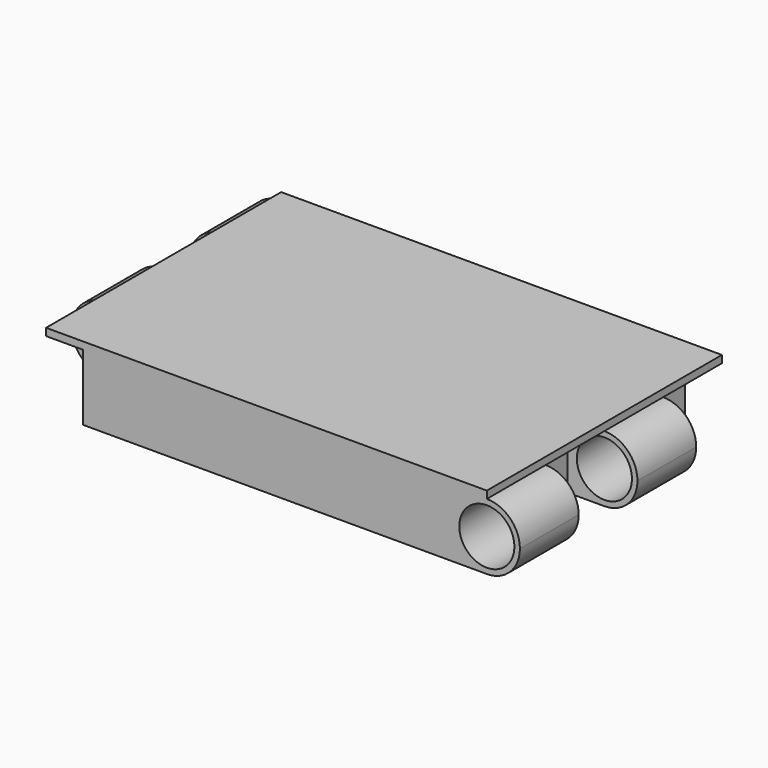
from build123d import *

# Parameters (mm, degrees)
F1_DEPTH      = 25.4
F3_DEPTH      = 25.4
F3_DEPTH_BACK = 50.801
F2_R          = 9.525
F4_DEPTH      = 25.4
F4_DEPTH_BACK = 50.801
F2_W          = 12.7
F2_H          = 2.54
F5_DEPTH      = 25.4
F5_DEPTH_BACK = 50.8
F7_DEPTH      = 25.4
F7_DEPTH_BACK = 50.801
F6_R          = 9.525
F8_DEPTH      = 25.4
F8_DEPTH_BACK = 50.801
F6_W          = 12.7
F6_H          = 2.54
F9_DEPTH      = 25.4
F9_DEPTH_BACK = 50.8


with BuildPart() as f1:
    # F0 (on Top) → F1 (new body)
    with BuildSketch(Plane.XY):
        Polygon((15.1580646015, 101.6), (-137.2419353985, 101.6), (-137.2419353985, 76.2), (-111.8419353985, 76.2), (-111.8419353985, 50.8), (-137.2419353985, 50.8), (-137.2419353985, 25.4), (-111.8419353985, 25.4), (-111.8419353985, 0), (40.5580646015, 0), (40.5580646015, 25.4), (15.1580646015, 25.4), (15.1580646015, 50.8), (40.5580646015, 50.8), (40.5580646015, 76.2), (15.1580646015, 76.2), align=None)
    extrude(amount=F1_DEPTH)

    # F2 (on face) → F3 (cut, two sides)
    with BuildSketch(Plane(origin=(0, 50.8, 0), x_dir=(-1, 0, 0), z_dir=(0, 1, 0))) as f3_sk:
        with BuildLine():
            ThreePointArc((124.5419353985, 22.86), (132.6241659074, 19.512230509), (135.9719353985, 11.43))
            ThreePointArc((135.9719353985, 11.43), (132.6241659074, 3.347769491), (124.5419353985, 0))
            Line((124.5419353985, 0), (137.2419353985, 0))
            Line((137.2419353985, 0), (137.2419353985, 25.4))
            Line((137.2419353985, 25.4), (124.5419353985, 25.4))
            Line((124.5419353985, 25.4), (124.5419353985, 22.86))
        make_face()
    extrude(amount=-F3_DEPTH, mode=Mode.SUBTRACT)
    extrude(f3_sk.sketch, amount=F3_DEPTH_BACK, mode=Mode.SUBTRACT)

    # F2 (on face) → F4 (cut, two sides)
    with BuildSketch(Plane(origin=(0, 50.8, 0), x_dir=(-1, 0, 0), z_dir=(0, 1, 0))) as f4_sk:
        with Locations((124.5419353985, 11.43)):
            Circle(F2_R)
    extrude(amount=-F4_DEPTH, mode=Mode.SUBTRACT)
    extrude(f4_sk.sketch, amount=F4_DEPTH_BACK, mode=Mode.SUBTRACT)

    # F2 (on face) → F5 (join, two sides)
    with BuildSketch(Plane(origin=(0, 50.8, 0), x_dir=(-1, 0, 0), z_dir=(0, 1, 0))) as f5_sk:
        with Locations((118.1919353985, 24.13)):
            Rectangle(F2_W, F2_H)
    extrude(amount=F5_DEPTH)
    extrude(f5_sk.sketch, amount=-F5_DEPTH_BACK)

    # F6 (on face) → F7 (cut, two sides)
    with BuildSketch(Plane.XZ.offset(-50.8)) as f7_sk:
        with BuildLine():
            ThreePointArc((27.8580646015, 22.86), (35.9402951105, 19.512230509), (39.2880646015, 11.43))
            ThreePointArc((39.2880646015, 11.43), (35.9402951105, 3.347769491), (27.8580646015, 0))
            Line((27.8580646015, 0), (40.5580646015, 0))
            Line((40.5580646015, 0), (40.5580646015, 25.4))
            Line((40.5580646015, 25.4), (27.8580646015, 25.4))
            Line((27.8580646015, 25.4), (27.8580646015, 22.86))
        make_face()
    extrude(amount=-F7_DEPTH, mode=Mode.SUBTRACT)
    extrude(f7_sk.sketch, amount=F7_DEPTH_BACK, mode=Mode.SUBTRACT)

    # F6 (on face) → F8 (cut, two sides)
    with BuildSketch(Plane.XZ.offset(-50.8)) as f8_sk:
        with Locations((27.8580646015, 11.43)):
            Circle(F6_R)
    extrude(amount=-F8_DEPTH, mode=Mode.SUBTRACT)
    extrude(f8_sk.sketch, amount=F8_DEPTH_BACK, mode=Mode.SUBTRACT)

    # F6 (on face) → F9 (join, two sides)
    with BuildSketch(Plane.XZ.offset(-50.8)) as f9_sk:
        with Locations((21.5080646015, 24.13)):
            Rectangle(F6_W, F6_H)
    extrude(amount=F9_DEPTH)
    extrude(f9_sk.sketch, amount=-F9_DEPTH_BACK)


solid = f1.part
